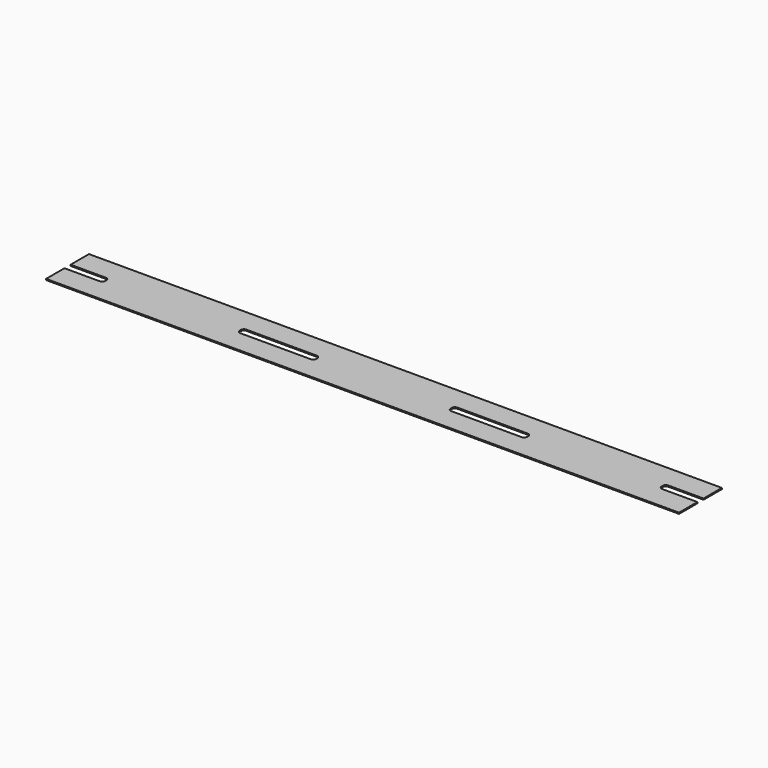
from build123d import *

# Parameters (mm, degrees)
F1_DEPTH = 0.15


with BuildPart() as f1:
    # F0 (on Top) → F1 (new body)
    with BuildSketch(Plane.XY):
        with BuildLine():
            Line((68.875, -0.5), (68.875, -3.5))
            Line((68.875, -3.5), (82.65, -3.5))
            Line((82.65, -3.5), (96.425, -3.5))
            Line((96.425, -3.5), (96.425, -0.5))
            Line((96.425, -0.5), (91.825, -0.5))
            ThreePointArc((91.825, -0.5), (91.542157, -0.382843), (91.425, -0.1))
            Line((91.425, -0.1), (91.425, 0.1))
            ThreePointArc((91.425, 0.1), (91.542157, 0.382843), (91.825, 0.5))
            Line((91.825, 0.5), (96.425, 0.5))
            Line((96.425, 0.5), (96.425, 3.5))
            Line((96.425, 3.5), (82.65, 3.5))
            Line((82.65, 3.5), (68.875, 3.5))
            Line((68.875, 3.5), (68.875, 0.5))
            Line((68.875, 0.5), (73.475, 0.5))
            ThreePointArc((73.475, 0.5), (73.757843, 0.382843), (73.875, 0.1))
            Line((73.875, 0.1), (73.875, -0.1))
            ThreePointArc((73.875, -0.1), (73.757843, -0.382843), (73.475, -0.5))
            Line((73.475, -0.5), (68.875, -0.5))
        make_face()
        with BuildLine():
            Line((13.775, -0.5), (13.775, -3.5))
            Line((13.775, -3.5), (27.55, -3.5))
            Line((27.55, -3.5), (41.325, -3.5))
            Line((41.325, -3.5), (41.325, -0.5))
            Line((41.325, -0.5), (36.725, -0.5))
            ThreePointArc((36.725, -0.5), (36.442157, -0.382843), (36.325, -0.1))
            Line((36.325, -0.1), (36.325, 0.1))
            ThreePointArc((36.325, 0.1), (36.442157, 0.382843), (36.725, 0.5))
            Line((36.725, 0.5), (41.325, 0.5))
            Line((41.325, 0.5), (41.325, 3.5))
            Line((41.325, 3.5), (27.55, 3.5))
            Line((27.55, 3.5), (13.775, 3.5))
            Line((13.775, 3.5), (13.775, 0.5))
            Line((13.775, 0.5), (18.375, 0.5))
            ThreePointArc((18.375, 0.5), (18.657843, 0.382843), (18.775, 0.1))
            Line((18.775, 0.1), (18.775, -0.1))
            ThreePointArc((18.775, -0.1), (18.657843, -0.382843), (18.375, -0.5))
            Line((18.375, -0.5), (13.775, -0.5))
        make_face()
        with BuildLine():
            Line((41.325, -0.5), (41.325, -3.5))
            Line((41.325, -3.5), (55.1, -3.5))
            Line((55.1, -3.5), (68.875, -3.5))
            Line((68.875, -3.5), (68.875, -0.5))
            Line((68.875, -0.5), (64.275, -0.5))
            ThreePointArc((64.275, -0.5), (63.992157, -0.382843), (63.875, -0.1))
            Line((63.875, -0.1), (63.875, 0.1))
            ThreePointArc((63.875, 0.1), (63.992157, 0.382843), (64.275, 0.5))
            Line((64.275, 0.5), (68.875, 0.5))
            Line((68.875, 0.5), (68.875, 3.5))
            Line((68.875, 3.5), (55.1, 3.5))
            Line((55.1, 3.5), (41.325, 3.5))
            Line((41.325, 3.5), (41.325, 0.5))
            Line((41.325, 0.5), (45.925, 0.5))
            ThreePointArc((45.925, 0.5), (46.207843, 0.382843), (46.325, 0.1))
            Line((46.325, 0.1), (46.325, -0.1))
            ThreePointArc((46.325, -0.1), (46.207843, -0.382843), (45.925, -0.5))
            Line((45.925, -0.5), (41.325, -0.5))
        make_face()
        with BuildLine():
            Line((68.875, -0.5), (68.875, -3.5))
            Line((68.875, -3.5), (82.65, -3.5))
            Line((82.65, -3.5), (96.425, -3.5))
            Line((96.425, -3.5), (96.425, -0.5))
            Line((96.425, -0.5), (91.825, -0.5))
            ThreePointArc((91.825, -0.5), (91.542157, -0.382843), (91.425, -0.1))
            Line((91.425, -0.1), (91.425, 0.1))
            ThreePointArc((91.425, 0.1), (91.542157, 0.382843), (91.825, 0.5))
            Line((91.825, 0.5), (96.425, 0.5))
            Line((96.425, 0.5), (96.425, 3.5))
            Line((96.425, 3.5), (82.65, 3.5))
            Line((82.65, 3.5), (68.875, 3.5))
            Line((68.875, 3.5), (68.875, 0.5))
            Line((68.875, 0.5), (73.475, 0.5))
            ThreePointArc((73.475, 0.5), (73.757843, 0.382843), (73.875, 0.1))
            Line((73.875, 0.1), (73.875, -0.1))
            ThreePointArc((73.875, -0.1), (73.757843, -0.382843), (73.475, -0.5))
            Line((73.475, -0.5), (68.875, -0.5))
        make_face()
    extrude(amount=F1_DEPTH)


solid = f1.part
